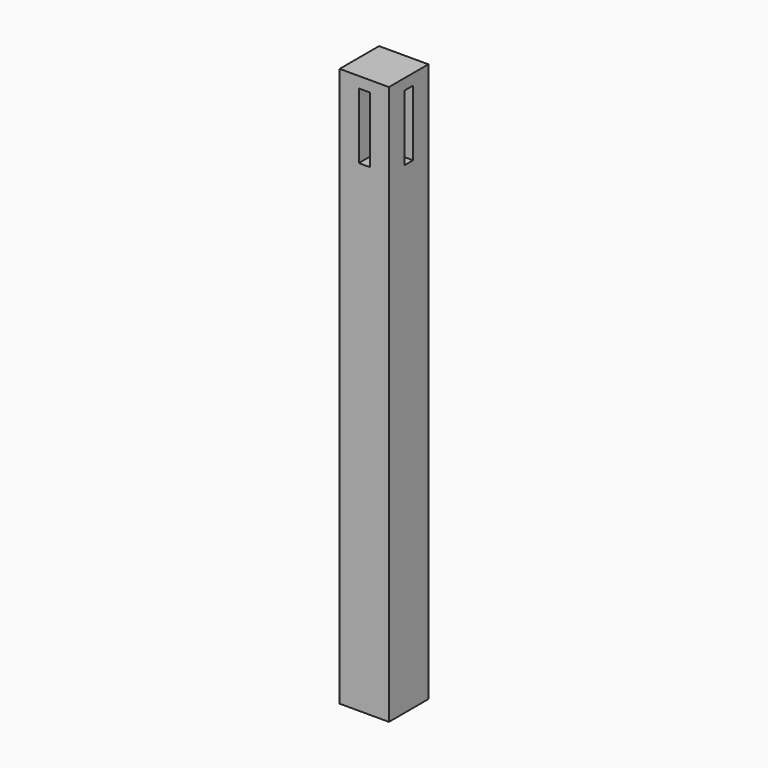
from build123d import *

# Parameters (mm, degrees)
F0_W     = 45
F0_H     = 45
F1_DEPTH = 510
F2_W     = 10
F2_H     = 60
F4_DEPTH = 30
F3_W     = 10
F3_H     = 60
F5_DEPTH = 30


with BuildPart() as f1:
    # F0 (on Top) → F1 (new body)
    with BuildSketch(Plane.XY):
        with Locations((-22.5, 22.5)):
            Rectangle(F0_W, F0_H)
    extrude(amount=F1_DEPTH)

    # F2 (on face) → F4 (cut)
    with BuildSketch(Plane.YZ):
        with Locations((22.5, 470)):
            Rectangle(F2_W, F2_H)
    extrude(amount=-F4_DEPTH, mode=Mode.SUBTRACT)

    # F3 (on face) → F5 (cut)
    with BuildSketch(Plane.XZ):
        with Locations((-22.5, 470)):
            Rectangle(F3_W, F3_H)
    extrude(amount=-F5_DEPTH, mode=Mode.SUBTRACT)


solid = f1.part
